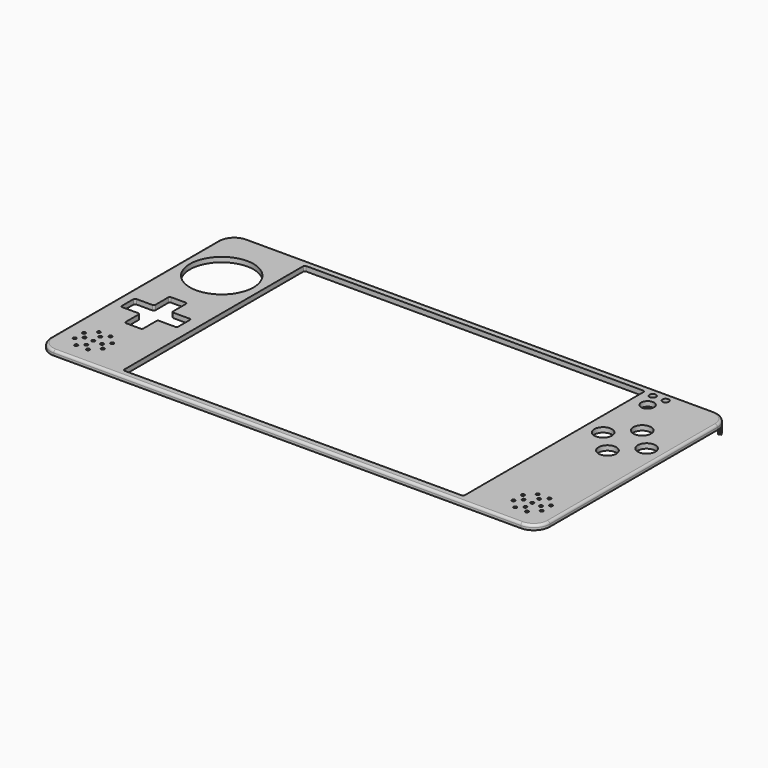
from build123d import *

# Parameters (mm, degrees)
F0_R     = 0.5
F0_R_2   = 9.875
F0_W     = 105.670338
F0_H     = 70.447
F0_R_3   = 2.75
F0_R_4   = 2
F0_R_5   = 1
F1_DEPTH = 1.5
F2_R     = 0.75
F3_R     = 0.5
F4_R     = 0.5
F6_DEPTH = 2.25


with BuildPart() as f1:
    # F0 (on Top) → F1 (new body)
    with BuildSketch(Plane.XY):
        with BuildLine():
            ThreePointArc((77.5, 32.5), (76.035534, 36.035534), (72.5, 37.5))
            Line((72.5, 37.5), (-72.5, 37.5))
            ThreePointArc((-72.5, 37.5), (-76.035534, 36.035534), (-77.5, 32.5))
            Line((-77.5, 32.5), (-77.5, -32.5))
            ThreePointArc((-77.5, -32.5), (-76.035534, -36.035534), (-72.5, -37.5))
            Line((-72.5, -37.5), (72.5, -37.5))
            ThreePointArc((72.5, -37.5), (76.035534, -36.035534), (77.5, -32.5))
            Line((77.5, -32.5), (77.5, 32.5))
        make_face()
        with Locations((-69.937184, -32)):
            Circle(F0_R, mode=Mode.SUBTRACT)
        with Locations((-72.5, -29.437184)):
            Circle(F0_R, mode=Mode.SUBTRACT)
        with Locations((-68.125, -30.3125)):
            Circle(F0_R, mode=Mode.SUBTRACT)
        with Locations((-66.312816, -32)):
            Circle(F0_R, mode=Mode.SUBTRACT)
        with Locations((-63.75, -29.437184)):
            Circle(F0_R, mode=Mode.SUBTRACT)
        with Locations((-70.8125, -27.625)):
            Circle(F0_R, mode=Mode.SUBTRACT)
        with Locations((-68.125, -27.625)):
            Circle(F0_R, mode=Mode.SUBTRACT)
        with Locations((-72.5, -25.812816)):
            Circle(F0_R, mode=Mode.SUBTRACT)
        with Locations((-68.125, -24.9375)):
            Circle(F0_R, mode=Mode.SUBTRACT)
        with Locations((-65.4375, -27.625)):
            Circle(F0_R, mode=Mode.SUBTRACT)
        with Locations((-63.75, -25.812816)):
            Circle(F0_R, mode=Mode.SUBTRACT)
        with Locations((-69.937184, -23.25)):
            Circle(F0_R, mode=Mode.SUBTRACT)
        with Locations((-66.312816, -23.25)):
            Circle(F0_R, mode=Mode.SUBTRACT)
        Polygon((-68.167584, -4), (-68.167584, 2), (-62.667584, 2), (-62.667584, -4), (-56.667584, -4), (-56.667584, -9.5), (-62.667584, -9.5), (-62.667584, -15.5), (-68.167584, -15.5), (-68.167584, -9.5), (-74.167584, -9.5), (-74.167584, -4), align=None, mode=Mode.SUBTRACT)
        with Locations((66.312816, -32)):
            Circle(F0_R, mode=Mode.SUBTRACT)
        with Locations((63.75, -29.437184)):
            Circle(F0_R, mode=Mode.SUBTRACT)
        with Locations((69.937184, -32)):
            Circle(F0_R, mode=Mode.SUBTRACT)
        with Locations((68.125, -30.3125)):
            Circle(F0_R, mode=Mode.SUBTRACT)
        with Locations((72.5, -29.437184)):
            Circle(F0_R, mode=Mode.SUBTRACT)
        with Locations((65.4375, -27.625)):
            Circle(F0_R, mode=Mode.SUBTRACT)
        with Locations((63.75, -25.812816)):
            Circle(F0_R, mode=Mode.SUBTRACT)
        with Locations((68.125, -27.625)):
            Circle(F0_R, mode=Mode.SUBTRACT)
        with Locations((70.8125, -27.625)):
            Circle(F0_R, mode=Mode.SUBTRACT)
        with Locations((72.5, -25.812816)):
            Circle(F0_R, mode=Mode.SUBTRACT)
        with Locations((68.125, -24.9375)):
            Circle(F0_R, mode=Mode.SUBTRACT)
        with Locations((66.312816, -23.25)):
            Circle(F0_R, mode=Mode.SUBTRACT)
        with Locations((69.937184, -23.25)):
            Circle(F0_R, mode=Mode.SUBTRACT)
        with Locations((-65.167584, 18.5)):
            Circle(F0_R_2, mode=Mode.SUBTRACT)
        Rectangle(F0_W, F0_H, mode=Mode.SUBTRACT)
        with Locations((65.1675, 5.25)):
            Circle(F0_R_3, mode=Mode.SUBTRACT)
        with Locations((58.4175, 12)):
            Circle(F0_R_3, mode=Mode.SUBTRACT)
        with Locations((71.9175, 12)):
            Circle(F0_R_3, mode=Mode.SUBTRACT)
        with Locations((65.1675, 18.75)):
            Circle(F0_R_3, mode=Mode.SUBTRACT)
        with Locations((57.835169, 30)):
            Circle(F0_R_4, mode=Mode.SUBTRACT)
        with Locations((55.835169, 34.5)):
            Circle(F0_R_5, mode=Mode.SUBTRACT)
        with Locations((59.835169, 34.5)):
            Circle(F0_R_5, mode=Mode.SUBTRACT)
    extrude(amount=-F1_DEPTH)

    # F2
    f2_edges = [f1.edges().sort_by_distance(p)[0] for p in [
        (0, -37.5, 0),
    ]]
    fillet(f2_edges, radius=F2_R)

    # F3
    f3_edges = [f1.edges().sort_by_distance(p)[0] for p in [
        (-52.835169, 35.2235, -0.75),
        (52.835169, 35.2235, -0.75),
        (-52.835169, -35.2235, -0.75),
        (52.835169, -35.2235, -0.75),
    ]]
    fillet(f3_edges, radius=F3_R)

    # F4
    f4_edges = [f1.edges().sort_by_distance(p)[0] for p in [
        (-68.167584, 2, -0.75),
        (-68.167584, -4, -0.75),
        (-74.167584, -4, -0.75),
        (-62.667584, -4, -0.75),
        (-68.167584, -9.5, -0.75),
        (-62.667584, -15.5, -0.75),
        (-62.667584, -9.5, -0.75),
        (-56.667584, -9.5, -0.75),
        (-56.667584, -4, -0.75),
        (-62.667584, 2, -0.75),
        (-74.167584, -9.5, -0.75),
        (-68.167584, -15.5, -0.75),
    ]]
    fillet(f4_edges, radius=F4_R)

    # F5 (on face) → F6 (join)
    with BuildSketch(Plane(origin=(0, 0, -1.5), x_dir=(1, 0, 0), z_dir=(0, 0, -1))):
        with BuildLine():
            Line((-63.75, -37.5), (-63.55, -37.5))
            ThreePointArc((-63.55, -37.5), (-63.691421, -37.441421), (-63.75, -37.3))
            Line((-63.75, -37.3), (-63.75, -36.9))
            ThreePointArc((-63.75, -36.9), (-63.691421, -36.758579), (-63.55, -36.7))
            Line((-63.55, -36.7), (-63.75, -36.7))
            Line((-63.75, -36.7), (-72.5, -36.7))
            ThreePointArc((-72.5, -36.7), (-74.877051, -35.962604), (-76.419423, -34.009346))
            ThreePointArc((-76.419423, -34.009346), (-76.415534, -34.14204), (-76.495587, -34.247938))
            Line((-76.495587, -34.247938), (-76.836386, -34.473767))
            ThreePointArc((-76.836386, -34.473767), (-77.005927, -34.498128), (-77.132147, -34.382342))
            ThreePointArc((-77.132147, -34.382342), (-75.291799, -36.647994), (-72.5, -37.5))
            Line((-72.5, -37.5), (-63.75, -37.5))
        make_face()
        with BuildLine():
            Line((63.75, -37.5), (72.5, -37.5))
            Line((72.5, -37.5), (72.5, -36.7))
            Line((72.5, -36.7), (63.75, -36.7))
            Line((63.75, -36.7), (63.55, -36.7))
            ThreePointArc((63.55, -36.7), (63.691421, -36.758579), (63.75, -36.9))
            Line((63.75, -36.9), (63.75, -37.3))
            ThreePointArc((63.75, -37.3), (63.691421, -37.441421), (63.55, -37.5))
            Line((63.55, -37.5), (63.75, -37.5))
        make_face()
        with BuildLine():
            Line((72.5, -36.7), (72.5, -37.5))
            ThreePointArc((72.5, -37.5), (74.672226, -37.003491), (76.413041, -35.612573))
            Line((76.413041, -35.612573), (75.786954, -35.114561))
            ThreePointArc((75.786954, -35.114561), (74.32467, -36.282933), (72.5, -36.7))
        make_face()
        with BuildLine():
            Line((75.786954, -35.114561), (76.413041, -35.612573))
            ThreePointArc((76.413041, -35.612573), (76.497426, -35.318286), (76.349003, -35.050524))
            Line((76.349003, -35.050524), (76.291232, -35.012242))
            ThreePointArc((76.291232, -35.012242), (76.020457, -34.971555), (75.786954, -35.114561))
        make_face()
        with BuildLine():
            ThreePointArc((76.349003, -35.050524), (76.497426, -35.318286), (76.413041, -35.612573))
            ThreePointArc((76.413041, -35.612573), (76.544309, -35.439994), (76.667971, -35.261887))
            Line((76.667971, -35.261887), (76.349003, -35.050524))
        make_face()
        with BuildLine():
            ThreePointArc((76.291232, -35.012242), (76.320948, -35.03013), (76.349003, -35.050524))
            Line((76.349003, -35.050524), (76.667971, -35.261887))
            ThreePointArc((76.667971, -35.261887), (76.921981, -34.833684), (77.132147, -34.382342))
            ThreePointArc((77.132147, -34.382342), (77.005927, -34.498128), (76.836386, -34.473767))
            Line((76.836386, -34.473767), (76.495587, -34.247938))
            ThreePointArc((76.495587, -34.247938), (76.415534, -34.14204), (76.419423, -34.009346))
            ThreePointArc((76.419423, -34.009346), (76.232333, -34.426056), (76.001096, -34.819985))
            Line((76.001096, -34.819985), (76.291232, -35.012242))
        make_face()
        with BuildLine():
            ThreePointArc((76.001096, -34.819985), (75.897219, -34.969595), (75.786954, -35.114561))
            ThreePointArc((75.786954, -35.114561), (76.020457, -34.971555), (76.291232, -35.012242))
            Line((76.291232, -35.012242), (76.001096, -34.819985))
        make_face()
    extrude(amount=F6_DEPTH)


solid = f1.part
